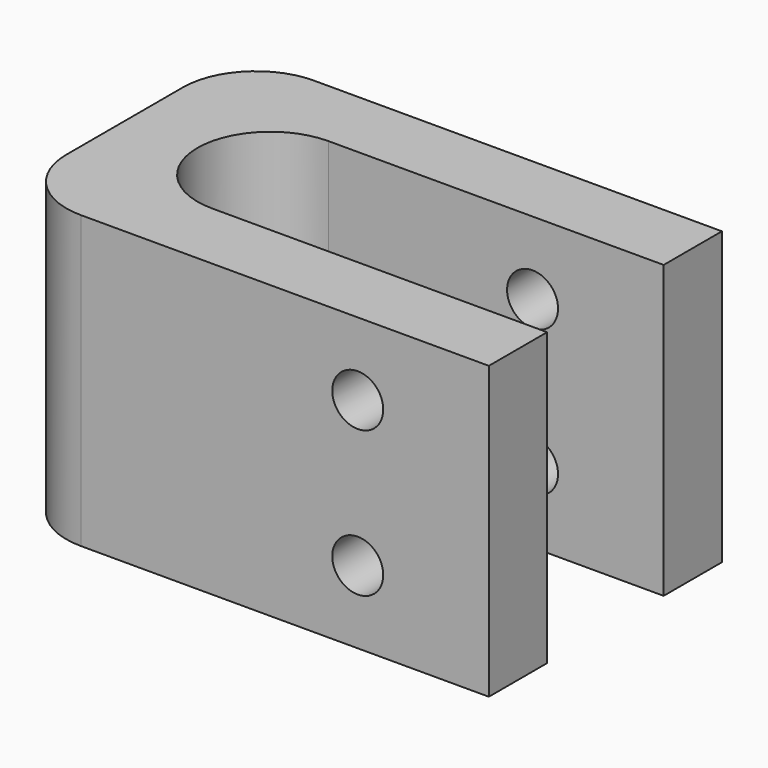
from build123d import *

# Parameters (mm, degrees)
F1_DEPTH = 20
F2_R     = 1.75
F3_DEPTH = 12.5
F4_R     = 5


with BuildPart() as f1:
    # F0 (on Top) → F1 (new body)
    with BuildSketch(Plane.XY):
        with BuildLine():
            Line((16.5, 10), (-16.5, 10))
            Line((-16.5, 10), (-16.5, -10))
            Line((-16.5, -10), (16.5, -10))
            Line((16.5, -10), (16.5, -5))
            Line((16.5, -5), (-6.5, -5))
            ThreePointArc((-6.5, -5), (-11.5, 0), (-6.5, 5))
            Line((-6.5, 5), (16.5, 5))
            Line((16.5, 5), (16.5, 10))
        make_face()
    extrude(amount=F1_DEPTH)

    # F2 (on Front) → F3 (cut, symmetric)
    with BuildSketch(Plane.XZ):
        with Locations((7.5, 15)):
            Circle(F2_R)
        with Locations((7.5, 5)):
            Circle(F2_R)
    extrude(amount=F3_DEPTH, both=True, mode=Mode.SUBTRACT)

    # F4
    f4_edges = [f1.edges().sort_by_distance(p)[0] for p in [
        (-16.5, 10, 10),
        (-16.5, -10, 10),
    ]]
    fillet(f4_edges, radius=F4_R)


solid = f1.part
